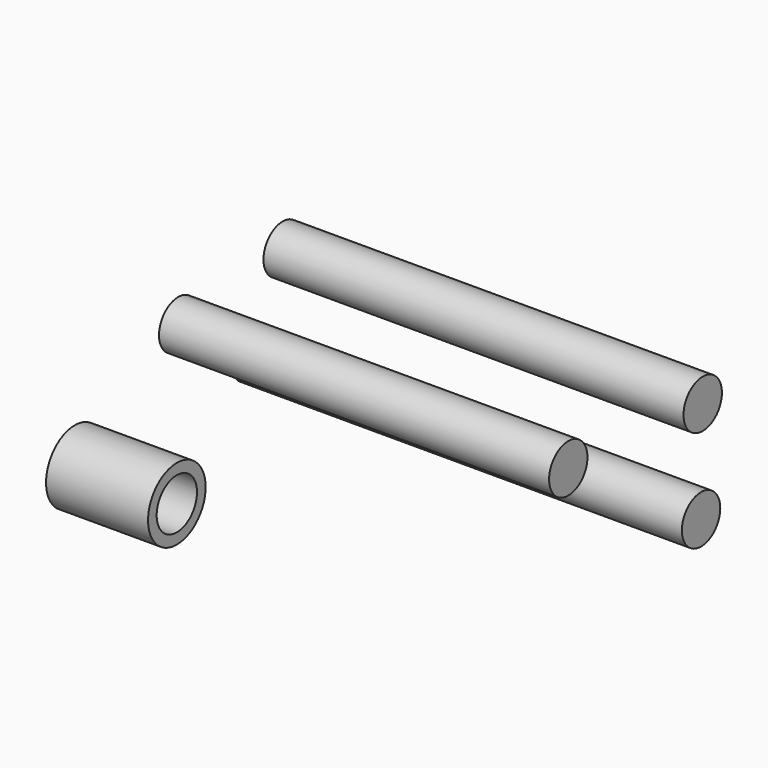
from build123d import *

# Parameters (mm, degrees)
F0_R     = 6
F0_R_2   = 4.2
F1_DEPTH = 15
F2_DEPTH = 2
F0_R_3   = 4
F3_DEPTH = 75
F4_DEPTH = 65
F5_DEPTH = 70


with BuildPart() as f1:
    # F0 (on Right) → F1 (new body)
    with BuildSketch(Plane.YZ):
        Circle(F0_R)
        Circle(F0_R_2, mode=Mode.SUBTRACT)
    extrude(amount=F1_DEPTH)

    # F0 (on Right) → F2 (join)
    with BuildSketch(Plane.YZ):
        Circle(F0_R)
        Circle(F0_R_2, mode=Mode.SUBTRACT)
        Circle(F0_R_2)
    extrude(amount=-F2_DEPTH)


with BuildPart() as f3:
    # F0 (on Right) → F3 (new body)
    with BuildSketch(Plane.YZ):
        with Locations((34.1957472265, 3.3231009729)):
            Circle(F0_R_3)
    extrude(amount=F3_DEPTH)


with BuildPart() as f4:
    # F0 (on Right) → F4 (new body)
    with BuildSketch(Plane.YZ):
        with Locations((19.0332792699, 13.7219512835)):
            Circle(F0_R_3)
    extrude(amount=F4_DEPTH)


with BuildPart() as f5:
    # F0 (on Right) → F5 (new body)
    with BuildSketch(Plane.YZ):
        with Locations((40.790412575, 15.9656554461)):
            Circle(F0_R_3)
    extrude(amount=F5_DEPTH)


solid = Compound([f1.part, f3.part, f4.part, f5.part])
